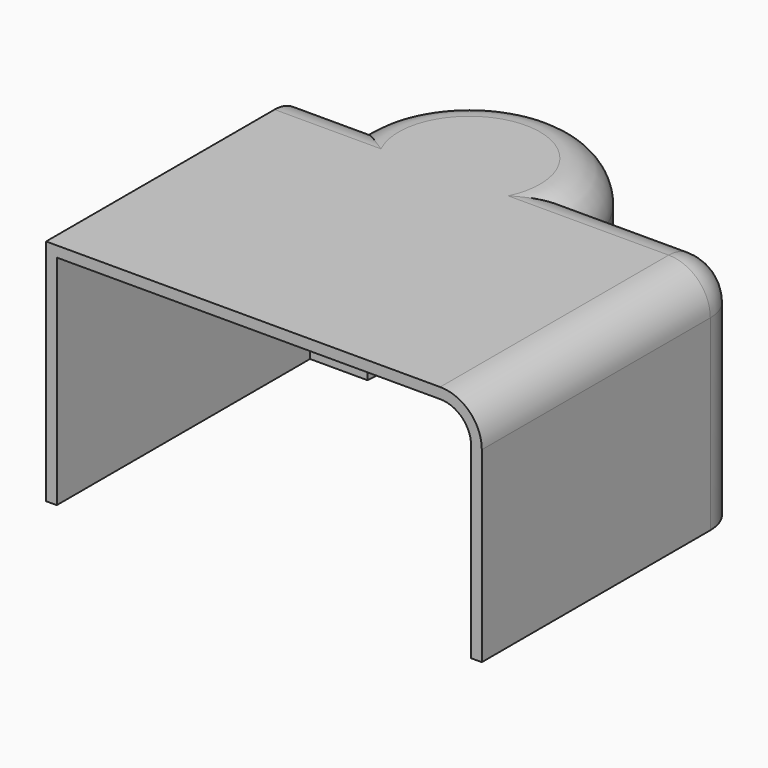
from build123d import *

# Parameters (mm, degrees)
F1_DEPTH = 51
F2_R     = 7.2426406871
F3_T     = 2.5


with BuildPart() as f1:
    # F0 (on Top) → F1 (new body)
    with BuildSketch(Plane.XY):
        with BuildLine():
            ThreePointArc((-66.1636230606, 59.9037967622), (-42.3757210374, 36.115894739), (-18.5878190141, 59.9037967622))
            Line((-18.5878190141, 59.9037967622), (-66.1636230606, 59.9037967622))
        make_face()
        with BuildLine():
            Line((-66.1636230606, 59.9037967622), (-18.5878190141, 59.9037967622))
            ThreePointArc((-18.5878190141, 59.9037967622), (-42.3757210374, 83.6916987855), (-66.1636230606, 59.9037967622))
        make_face()
        with BuildLine():
            Line((17.2835066915, 59.9037967622), (-18.5878190141, 59.9037967622))
            ThreePointArc((-18.5878190141, 59.9037967622), (-42.3757210374, 36.115894739), (-66.1636230606, 59.9037967622))
            Line((-66.1636230606, 59.9037967622), (-79.6502381563, 59.9037967622))
            Line((-79.6502381563, 59.9037967622), (-79.6502381563, -14.1544044018))
            Line((-79.6502381563, -14.1544044018), (17.2835066915, -14.1544044018))
            Line((17.2835066915, -14.1544044018), (17.2835066915, 59.9037967622))
        make_face()
    extrude(amount=F1_DEPTH)

    # F2
    f2_edges = [f1.edges().sort_by_distance(p)[0] for p in [
        (17.283507, 59.903797, 25.5),
        (-0.652156, 59.903797, 51),
        (17.283507, 22.874696, 51),
        (-42.375721, 83.691699, 51),
        (-72.906931, 59.903797, 51),
    ]]
    fillet(f2_edges, radius=F2_R)

    # F3
    f3_openings = [f1.faces().sort_by_distance(p)[0] for p in [
        (-31.290289, -14.154404, 25.445494),
        (-32.483683, 28.024527, 0),
    ]]
    offset(amount=F3_T, openings=f3_openings, kind=Kind.INTERSECTION)


solid = f1.part
